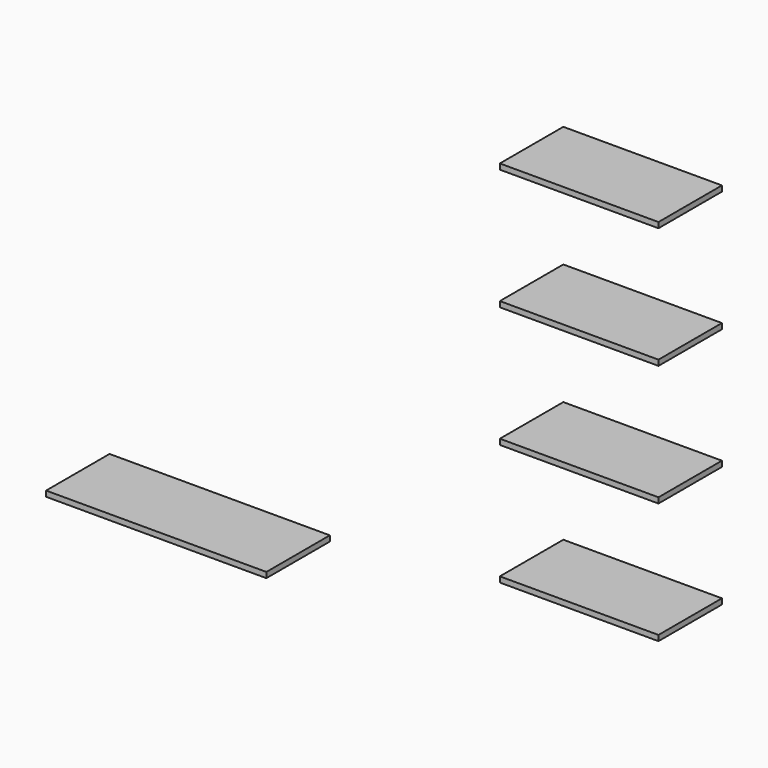
from build123d import *

# Parameters (mm, degrees)
F0_W     = 635
F0_H     = 228.6
F1_DEPTH = 7.9375
F2_W     = 457.2
F2_H     = 228.6
F3_DEPTH = 15.875


with BuildPart() as f1:
    # F0 (on Top) → F1 (new body, symmetric)
    with BuildSketch(Plane.XY):
        Rectangle(F0_W, F0_H)
    extrude(amount=F1_DEPTH, both=True)


with BuildPart() as f3:
    # F2 (on Top) → F3 (new body)
    with BuildSketch(Plane.XY):
        with Locations((979.383111, 299.624636)):
            Rectangle(F2_W, F2_H)
    extrude(amount=F3_DEPTH)


with BuildPart() as f4_1:
    # F4: copy of F3
    add(f3.part.moved(Location((0, 0, 349.25))))


with BuildPart() as f5_1:
    # F5: copy of F4_1
    add(f4_1.part.moved(Location((0, 0, 349.25))))


with BuildPart() as f6_1:
    # F6: copy of F5_1
    add(f5_1.part.moved(Location((0, 0, 349.25))))


solid = Compound([f1.part, f3.part, f4_1.part, f5_1.part, f6_1.part])
